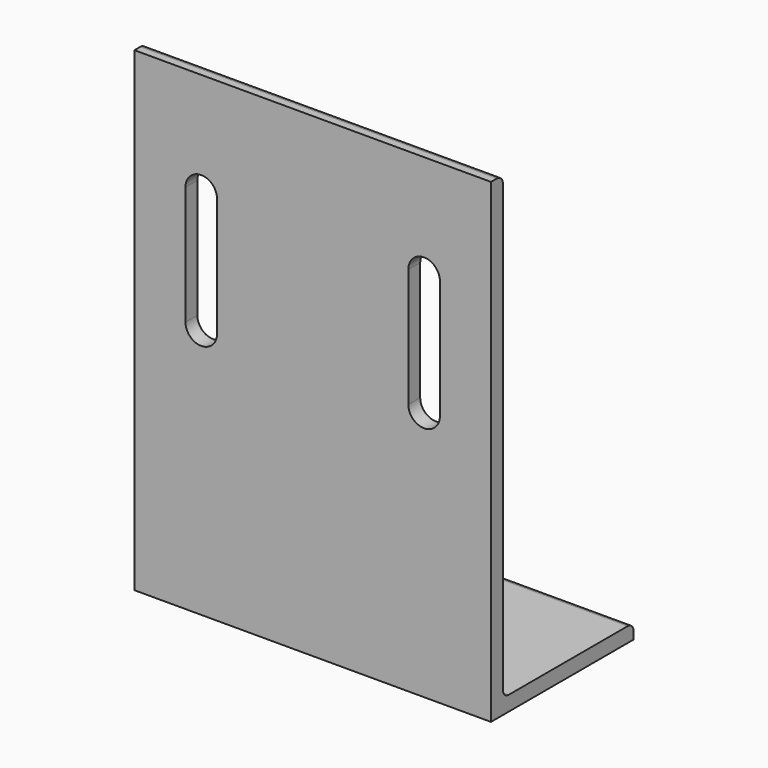
from build123d import *

# Parameters (mm, degrees)
F1_DEPTH = 76.2
F3_DEPTH = 25.4
F5_D     = 8.73125
F7_D     = 5.1054
F8_R     = 3.175


with BuildPart() as f1:
    # F0 (on Right) → F1 (new body, symmetric)
    with BuildSketch(Plane.YZ):
        Polygon((6.3499999233, 203.2), (0, 203.2), (0, 0), (76.2, 0), (76.2, 6.3499999233), (6.3499999233, 6.3499999233), align=None)
    extrude(amount=F1_DEPTH, both=True)

    # F2 (on face) → F3 (cut)
    with BuildSketch(Plane.XZ):
        with BuildLine():
            ThreePointArc((-40.878125, 158.75), (-47.625, 165.496875), (-54.371875, 158.75))
            Line((-54.371875, 158.75), (-54.371875, 107.95))
            ThreePointArc((-54.371875, 107.95), (-47.625, 101.203125), (-40.878125, 107.95))
            Line((-40.878125, 107.95), (-40.878125, 158.75))
        make_face()
        with BuildLine():
            Line((54.371875, 107.95), (54.371875, 158.75))
            ThreePointArc((54.371875, 158.75), (47.625, 165.496875), (40.878125, 158.75))
            Line((40.878125, 158.75), (40.878125, 107.95))
            ThreePointArc((40.878125, 107.95), (47.625, 101.203125), (54.371875, 107.95))
        make_face()
    extrude(amount=-F3_DEPTH, mode=Mode.SUBTRACT)

    # F5 (through all)
    with Locations(Plane.XY.offset(6.3499999233)):
        with Locations((-44.45, 38.1), (44.45, 38.1)):
            Hole(F5_D / 2)

    # F7 (through all)
    with Locations(Plane.XY.offset(6.3499999233)):
        with Locations((15.875, 38.1), (-15.875, 38.1)):
            Hole(F7_D / 2)

    # F8
    f8_edges = [f1.edges().sort_by_distance(p)[0] for p in [
        (0, 6.35, 6.35),
        (0, 6.35, 203.2),
        (0, 76.2, 6.35),
    ]]
    fillet(f8_edges, radius=F8_R)


solid = f1.part
